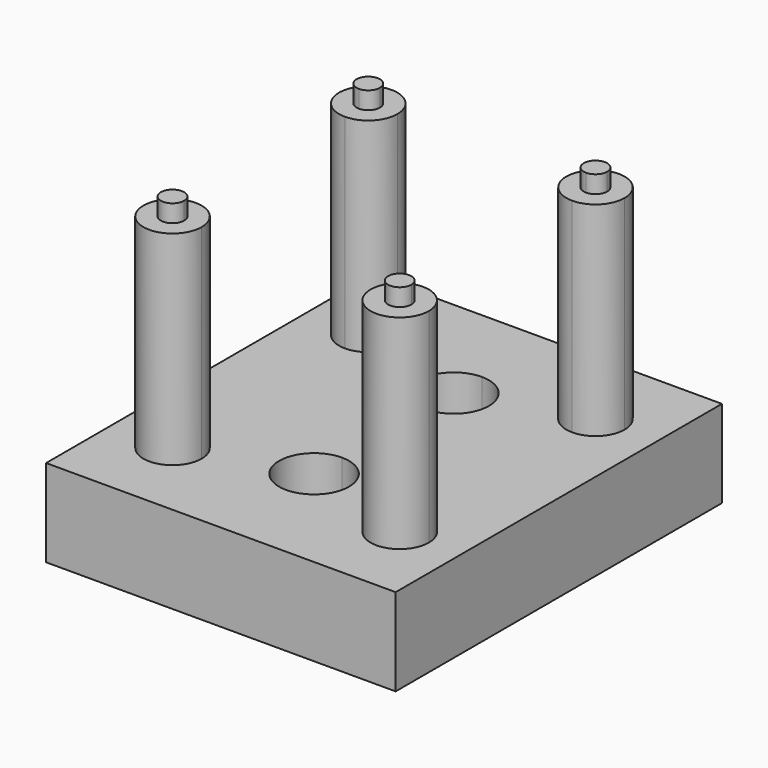
from build123d import *

# Parameters (mm, degrees)
F0_W     = 60
F0_H     = 70
F1_DEPTH = 15
F2_DEPTH = 50
F3_DEPTH = 53
F4_DEPTH = 3


with BuildPart() as f1:
    # F0 (on Top) → F1 (new body)
    with BuildSketch(Plane.XY):
        Rectangle(F0_W, F0_H)
        with BuildLine():
            Line((0, 21), (14.5, 21))
            ThreePointArc((14.5, 21), (19.5, 26), (24.5, 21))
            ThreePointArc((24.5, 21), (23.0355339059, 17.4644660941), (19.5, 16))
            Line((19.5, 16), (19.5, 0))
            Line((19.5, 0), (19.5, -16))
            ThreePointArc((19.5, -16), (23.0355339059, -17.4644660941), (24.5, -21))
            ThreePointArc((24.5, -21), (19.5, -26), (14.5, -21))
            Line((14.5, -21), (0, -21))
            Line((0, -21), (-14.5, -21))
            ThreePointArc((-14.5, -21), (-23.0355339059, -24.5355339059), (-19.5, -16))
            Line((-19.5, -16), (-19.5, 16))
            ThreePointArc((-19.5, 16), (-23.0355339059, 24.5355339059), (-14.5, 21))
            Line((-14.5, 21), (0, 21))
        make_face(mode=Mode.SUBTRACT)
        with BuildLine():
            ThreePointArc((19.5, 16), (15.9644660941, 17.4644660941), (14.5, 21))
            Line((14.5, 21), (0, 21))
            ThreePointArc((0, 21), (4.2426406871, 19.2426406871), (6, 15))
            ThreePointArc((6, 15), (4.2426406871, 10.7573593129), (0, 9))
            Line((0, 9), (0, 0))
            Line((0, 0), (19.5, 0))
            Line((19.5, 0), (19.5, 16))
        make_face()
        with BuildLine():
            ThreePointArc((0, 9), (-6, 15), (0, 21))
            Line((0, 21), (-14.5, 21))
            ThreePointArc((-14.5, 21), (-15.9644660941, 17.4644660941), (-19.5, 16))
            Line((-19.5, 16), (-19.5, -16))
            ThreePointArc((-19.5, -16), (-15.9644660941, -17.4644660941), (-14.5, -21))
            Line((-14.5, -21), (0, -21))
            ThreePointArc((0, -21), (-6, -15), (0, -9))
            Line((0, -9), (0, 0))
            Line((0, 0), (0, 9))
        make_face()
        with BuildLine():
            Line((19.5, -16), (19.5, 0))
            Line((19.5, 0), (0, 0))
            Line((0, 0), (0, -9))
            ThreePointArc((0, -9), (4.2426406871, -10.7573593129), (6, -15))
            ThreePointArc((6, -15), (4.2426406871, -19.2426406871), (0, -21))
            Line((0, -21), (14.5, -21))
            ThreePointArc((14.5, -21), (15.9644660941, -17.4644660941), (19.5, -16))
        make_face()
    extrude(amount=F1_DEPTH)

    # F0 (on Top) → F2 (join)
    with BuildSketch(Plane.XY):
        with BuildLine():
            ThreePointArc((19.5, 19), (18.0857864376, 19.5857864376), (17.5, 21))
            Line((17.5, 21), (14.5, 21))
            ThreePointArc((14.5, 21), (15.9644660941, 17.4644660941), (19.5, 16))
            Line((19.5, 16), (19.5, 19))
        make_face()
        with BuildLine():
            ThreePointArc((17.5, 21), (19.5, 23), (21.5, 21))
            ThreePointArc((21.5, 21), (20.9142135624, 19.5857864376), (19.5, 19))
            Line((19.5, 19), (19.5, 16))
            ThreePointArc((19.5, 16), (23.0355339059, 17.4644660941), (24.5, 21))
            ThreePointArc((24.5, 21), (19.5, 26), (14.5, 21))
            Line((14.5, 21), (17.5, 21))
        make_face()
        with BuildLine():
            Line((-17.5, 21), (-14.5, 21))
            ThreePointArc((-14.5, 21), (-23.0355339059, 24.5355339059), (-19.5, 16))
            Line((-19.5, 16), (-19.5, 19))
            ThreePointArc((-19.5, 19), (-20.9142135624, 22.4142135624), (-17.5, 21))
        make_face()
        with BuildLine():
            ThreePointArc((-19.5, 16), (-15.9644660941, 17.4644660941), (-14.5, 21))
            Line((-14.5, 21), (-17.5, 21))
            ThreePointArc((-17.5, 21), (-18.0857864376, 19.5857864376), (-19.5, 19))
            Line((-19.5, 19), (-19.5, 16))
        make_face()
        with BuildLine():
            ThreePointArc((-14.5, -21), (-15.9644660941, -17.4644660941), (-19.5, -16))
            Line((-19.5, -16), (-19.5, -19))
            ThreePointArc((-19.5, -19), (-18.0857864376, -19.5857864376), (-17.5, -21))
            Line((-17.5, -21), (-14.5, -21))
        make_face()
        with BuildLine():
            Line((-19.5, -19), (-19.5, -16))
            ThreePointArc((-19.5, -16), (-23.0355339059, -24.5355339059), (-14.5, -21))
            Line((-14.5, -21), (-17.5, -21))
            ThreePointArc((-17.5, -21), (-20.9142135624, -22.4142135624), (-19.5, -19))
        make_face()
        with BuildLine():
            Line((19.5, -19), (19.5, -16))
            ThreePointArc((19.5, -16), (15.9644660941, -17.4644660941), (14.5, -21))
            Line((14.5, -21), (17.5, -21))
            ThreePointArc((17.5, -21), (18.0857864376, -19.5857864376), (19.5, -19))
        make_face()
        with BuildLine():
            ThreePointArc((24.5, -21), (23.0355339059, -17.4644660941), (19.5, -16))
            Line((19.5, -16), (19.5, -19))
            ThreePointArc((19.5, -19), (20.9142135624, -19.5857864376), (21.5, -21))
            ThreePointArc((21.5, -21), (19.5, -23), (17.5, -21))
            Line((17.5, -21), (14.5, -21))
            ThreePointArc((14.5, -21), (19.5, -26), (24.5, -21))
        make_face()
    extrude(amount=F2_DEPTH)

    # F0 (on Top) → F3 (join)
    with BuildSketch(Plane.XY):
        with BuildLine():
            ThreePointArc((-17.5, -21), (-18.0857864376, -19.5857864376), (-19.5, -19))
            Line((-19.5, -19), (-19.5, -21))
            Line((-19.5, -21), (-17.5, -21))
        make_face()
        with BuildLine():
            Line((-19.5, -21), (-19.5, -19))
            ThreePointArc((-19.5, -19), (-20.9142135624, -22.4142135624), (-17.5, -21))
            Line((-17.5, -21), (-19.5, -21))
        make_face()
        with BuildLine():
            Line((-19.5, 21), (-17.5, 21))
            ThreePointArc((-17.5, 21), (-20.9142135624, 22.4142135624), (-19.5, 19))
            Line((-19.5, 19), (-19.5, 21))
        make_face()
        with BuildLine():
            ThreePointArc((-19.5, 19), (-18.0857864376, 19.5857864376), (-17.5, 21))
            Line((-17.5, 21), (-19.5, 21))
            Line((-19.5, 21), (-19.5, 19))
        make_face()
        with BuildLine():
            Line((19.5, -21), (19.5, -19))
            ThreePointArc((19.5, -19), (18.0857864376, -19.5857864376), (17.5, -21))
            Line((17.5, -21), (19.5, -21))
        make_face()
        with BuildLine():
            ThreePointArc((21.5, -21), (20.9142135624, -19.5857864376), (19.5, -19))
            Line((19.5, -19), (19.5, -21))
            Line((19.5, -21), (17.5, -21))
            ThreePointArc((17.5, -21), (19.5, -23), (21.5, -21))
        make_face()
        with BuildLine():
            Line((19.5, 21), (17.5, 21))
            ThreePointArc((17.5, 21), (18.0857864376, 19.5857864376), (19.5, 19))
            Line((19.5, 19), (19.5, 21))
        make_face()
        with BuildLine():
            ThreePointArc((19.5, 19), (20.9142135624, 19.5857864376), (21.5, 21))
            ThreePointArc((21.5, 21), (19.5, 23), (17.5, 21))
            Line((17.5, 21), (19.5, 21))
            Line((19.5, 21), (19.5, 19))
        make_face()
    extrude(amount=F3_DEPTH)

    # F0 (on Top) → F4 (join)
    with BuildSketch(Plane.XY):
        with BuildLine():
            ThreePointArc((6, 15), (4.2426406871, 19.2426406871), (0, 21))
            ThreePointArc((0, 21), (-6, 15), (0, 9))
            ThreePointArc((0, 9), (4.2426406871, 10.7573593129), (6, 15))
        make_face()
        with BuildLine():
            ThreePointArc((2, 15), (1.4142135624, 13.5857864376), (0, 13))
            ThreePointArc((0, 13), (-1.4142135624, 16.4142135624), (2, 15))
        make_face(mode=Mode.SUBTRACT)
        with BuildLine():
            ThreePointArc((6, -15), (4.2426406871, -10.7573593129), (0, -9))
            ThreePointArc((0, -9), (-6, -15), (0, -21))
            ThreePointArc((0, -21), (4.2426406871, -19.2426406871), (6, -15))
        make_face()
        with BuildLine():
            ThreePointArc((2, -15), (-1.4142135624, -16.4142135624), (0, -13))
            ThreePointArc((0, -13), (1.4142135624, -13.5857864376), (2, -15))
        make_face(mode=Mode.SUBTRACT)
    extrude(amount=F4_DEPTH)


solid = f1.part
